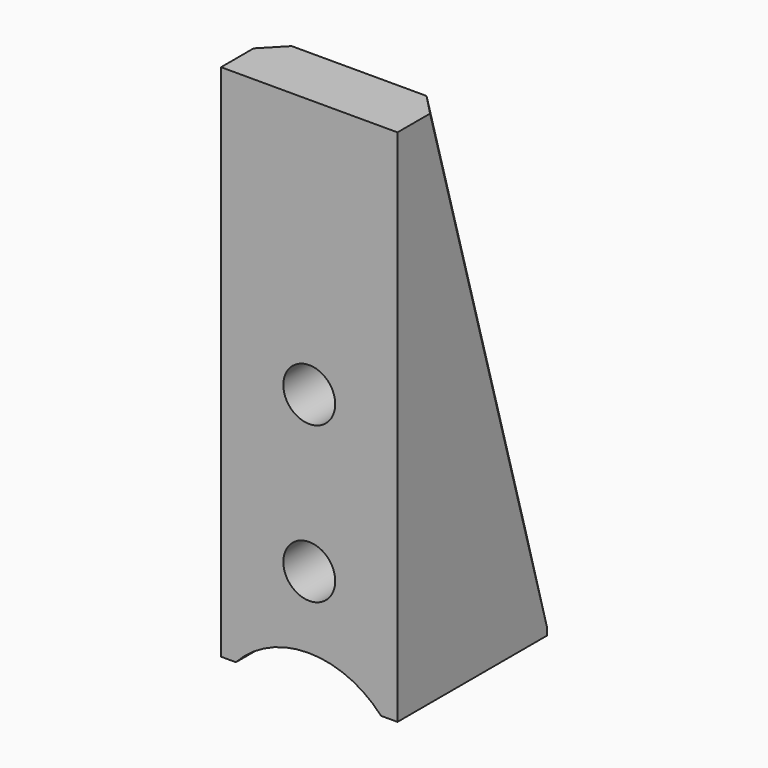
from build123d import *

# Parameters (mm, degrees)
F0_W      = 17
F0_H      = 50
F1_DEPTH  = 18
F3_D      = 5
F3_DEPTH  = 25
F3_TIP    = 1.5021515476
F5_DEPTH  = 25
F6_R      = 9.5
F7_DEPTH  = 25
F8_R      = 9.5
F8_R_2    = 1.6285775441
F9_DEPTH  = 25
F10_R     = 9.5
F11_DEPTH = 25
F12_SIZE  = 2


with BuildPart() as f1:
    # F0 (on Front) → F1 (new body)
    with BuildSketch(Plane.XZ):
        with Locations((-8.5, 25)):
            Rectangle(F0_W, F0_H)
        with Locations((-8.5, 25)):
            Rectangle(F0_W, F0_H)
    extrude(amount=F1_DEPTH)

    # F3
    with Locations(Plane.XZ.offset(18)):
        with Locations((-8.5, 10), (-8.5, 25)):
            Hole(F3_D / 2, depth=F3_DEPTH)
            with Locations((0, 0, -(F3_DEPTH + F3_TIP / 2))):  # 118° drill point
                Cone(0, F3_D / 2, F3_TIP, mode=Mode.SUBTRACT)

    # F4 (on face) → F5 (cut)
    with BuildSketch(Plane(origin=(-17, 0, 0), x_dir=(0, -1, 0), z_dir=(-1, 0, 0))):
        Polygon((0, 50), (0, 8), (12, 50), align=None)
    extrude(amount=-F5_DEPTH, mode=Mode.SUBTRACT)

    # F6 (on Front) → F7 (cut)
    with BuildSketch(Plane.XZ):
        with Locations((-8.5753183812, -6.7173321731)):
            Circle(F6_R)
    extrude(amount=-F7_DEPTH, mode=Mode.SUBTRACT)

    # F8 (on Front) → F9 (cut)
    with BuildSketch(Plane.XZ):
        with Locations((-8.2726162836, -6.7173321731)):
            Circle(F8_R)
        with Locations((10.9988851703, -6.7173321731)):
            Circle(F8_R_2)
        with Locations((-8.2726162836, -6.7173321731)):
            Circle(F8_R)
    extrude(amount=-F9_DEPTH, mode=Mode.SUBTRACT)

    # F10 (on face) → F11 (cut)
    with BuildSketch(Plane(origin=(0, 0, 0), x_dir=(-1, 0, 0), z_dir=(0, 1, 0))):
        with Locations((8.5753183812, -6.4314883202)):
            Circle(F10_R)
        with BuildLine():
            Line((1.5834689844, 0), (15.5671677779, 0))
            ThreePointArc((15.5671677779, 0), (8.5753183812, 3.0685116798), (1.5834689844, 0))
        make_face()
    extrude(amount=-F11_DEPTH, mode=Mode.SUBTRACT)

    # F12
    f12_edges = [f1.edges().sort_by_distance(p)[0] for p in [
        (0, -6, 29),
        (-17, -6, 29),
    ]]
    chamfer(f12_edges, length=F12_SIZE)


solid = f1.part
